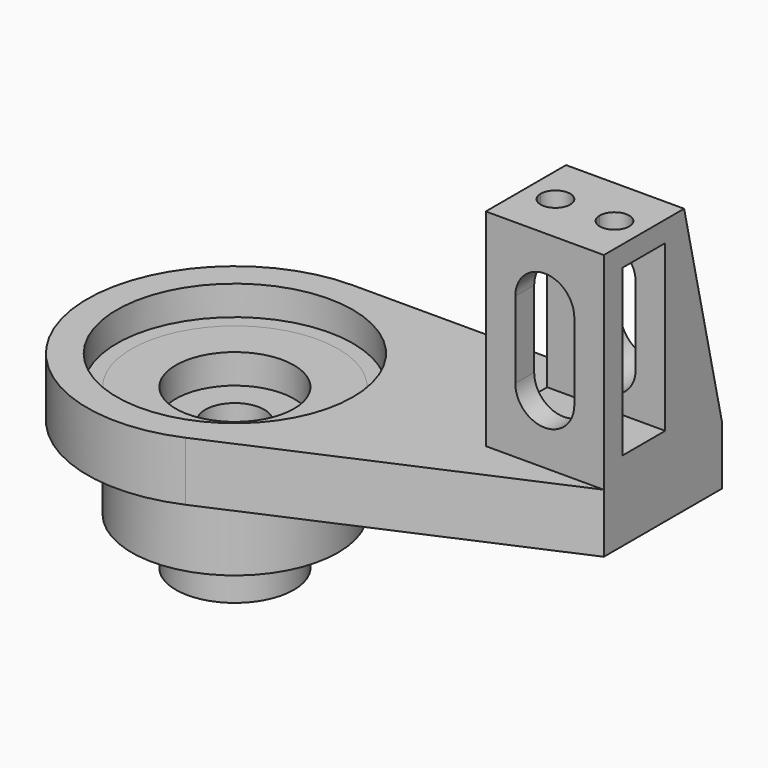
from build123d import *

# Parameters (mm, degrees)
F0_R      = 20
F0_R_2    = 17.5
F1_DEPTH  = 10
F0_W      = 20
F0_H      = 8
F0_H_2    = 17
F2_DEPTH  = 45
F0_R_3    = 10
F0_R_4    = 5
F3_DEPTH  = 22
F5_SIZE2  = 35
F5_SIZE   = 8
F6_W      = 9
F6_H      = 28
F7_DEPTH  = 30
F8_W      = 10
F8_H      = 13
F9_DEPTH  = 26
F10_DEPTH = 25
F11_R     = 20
F11_R_2   = 17.5
F12_DEPTH = 5
F13_DEPTH = 14
F14_DEPTH = 5


with BuildPart() as f1:
    # F0 (on Top) → F1 (new body)
    with BuildSketch(Plane.XY):
        with BuildLine():
            Line((42.5, 25), (0, 25))
            ThreePointArc((0, 25), (-24.4726578233, -5.1077410922), (10, -22.9128784748))
            Line((10, -22.9128784748), (62.5, 0))
            Line((62.5, 0), (42.5, 0))
            Line((42.5, 0), (42.5, 17))
            Line((42.5, 17), (42.5, 25))
        make_face()
        Circle(F0_R, mode=Mode.SUBTRACT)
        Circle(F0_R)
        Circle(F0_R_2, mode=Mode.SUBTRACT)
    extrude(amount=F1_DEPTH)

    # F0 (on Top) → F2 (join)
    with BuildSketch(Plane.XY):
        with Locations((52.5, 21)):
            Rectangle(F0_W, F0_H)
        with Locations((52.5, 8.5)):
            Rectangle(F0_W, F0_H_2)
    extrude(amount=F2_DEPTH)

    # F5
    f5_edges = [f1.edges().sort_by_distance(p)[0] for p in [
        (52.5, 25, 45),
    ]]
    f5_side = f1.faces().sort_by_distance((52.5, 12.5, 45))[0]
    chamfer(f5_edges, length=F5_SIZE, length2=F5_SIZE2, reference=f5_side)

    # F6 (on face) → F7 (cut)
    with BuildSketch(Plane(origin=(42.5, 0, 0), x_dir=(0, -1, 0), z_dir=(-1, 0, 0))):
        with Locations((-8.5, 27.5)):
            Rectangle(F6_W, F6_H)
    extrude(amount=-F7_DEPTH, mode=Mode.SUBTRACT)

    # F8 (on face) → F9 (cut)
    with BuildSketch(Plane.XZ):
        with BuildLine():
            Line((47.5, 34), (57.5, 34))
            ThreePointArc((57.5, 34), (52.5, 39), (47.5, 34))
        make_face()
        with Locations((52.5, 27.5)):
            Rectangle(F8_W, F8_H)
        with BuildLine():
            ThreePointArc((47.5, 21), (52.5, 16), (57.5, 21))
            Line((57.5, 21), (47.5, 21))
        make_face()
    extrude(amount=-F9_DEPTH, mode=Mode.SUBTRACT)

    # F4 (on face) → F10 (cut)
    with BuildSketch(Plane.XY.offset(45)):
        with BuildLine():
            Line((47.5, 8.5), (50, 8.5))
            ThreePointArc((50, 8.5), (47.5, 11), (45, 8.5))
            Line((45, 8.5), (47.5, 8.5))
        make_face()
        with BuildLine():
            ThreePointArc((45, 8.5), (45.732233047, 6.732233047), (47.5, 6))
            Line((47.5, 6), (47.5, 8.5))
            Line((47.5, 8.5), (45, 8.5))
        make_face()
        with BuildLine():
            Line((47.5, 8.5), (47.5, 6))
            ThreePointArc((47.5, 6), (49.267766953, 6.732233047), (50, 8.5))
            Line((50, 8.5), (47.5, 8.5))
        make_face()
        with BuildLine():
            Line((57.5, 8.5), (60, 8.5))
            ThreePointArc((60, 8.5), (57.5, 11), (55, 8.5))
            Line((55, 8.5), (57.5, 8.5))
        make_face()
        with BuildLine():
            ThreePointArc((55, 8.5), (55.732233047, 6.732233047), (57.5, 6))
            Line((57.5, 6), (57.5, 8.5))
            Line((57.5, 8.5), (55, 8.5))
        make_face()
        with BuildLine():
            ThreePointArc((57.5, 6), (59.267766953, 6.732233047), (60, 8.5))
            Line((60, 8.5), (57.5, 8.5))
            Line((57.5, 8.5), (57.5, 6))
        make_face()
    extrude(amount=-F10_DEPTH, mode=Mode.SUBTRACT)

    # F11 (on face) → F12 (cut)
    with BuildSketch(Plane.XY.offset(10)):
        Circle(F11_R)
        Circle(F11_R_2, mode=Mode.SUBTRACT)
    extrude(amount=-F12_DEPTH, mode=Mode.SUBTRACT)


with BuildPart() as f3:
    # F0 (on Top) → F3 (new body)
    with BuildSketch(Plane.XY):
        Circle(F0_R_3)
        Circle(F0_R_4, mode=Mode.SUBTRACT)
    extrude(amount=-F3_DEPTH)


with BuildPart() as f13:
    # F0 (on Top) → F13 (new body)
    with BuildSketch(Plane.XY):
        Circle(F0_R_2)
        Circle(F0_R_3, mode=Mode.SUBTRACT)
    extrude(amount=-F13_DEPTH)


with BuildPart() as f14:
    # F0 (on Top) → F14 (new body)
    with BuildSketch(Plane.XY):
        Circle(F0_R_2)
        Circle(F0_R_3, mode=Mode.SUBTRACT)
    extrude(amount=F14_DEPTH)


solid = Compound([f1.part, f3.part, f13.part, f14.part])
